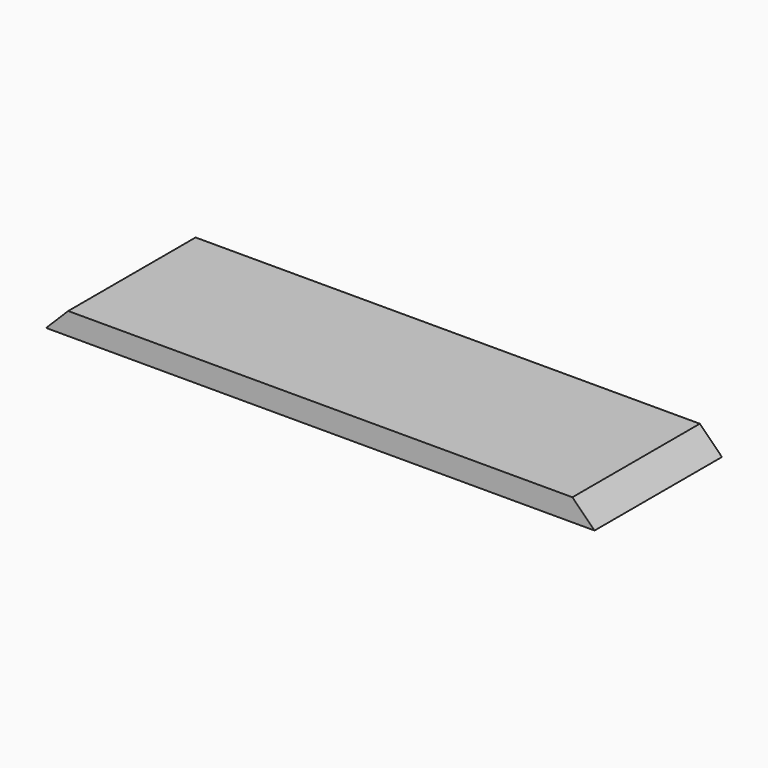
from build123d import *

# Parameters (mm, degrees)
F0_W     = 393.7
F0_H     = 114.3
F1_DEPTH = 15.875
F3_DEPTH = 114.301


with BuildPart() as f1:
    # F0 (on Top) → F1 (new body)
    with BuildSketch(Plane.XY):
        Rectangle(F0_W, F0_H)
    extrude(amount=F1_DEPTH)

    # F2 (on face) → F3 (cut, through all)
    with BuildSketch(Plane.XZ.offset(57.15)):
        Polygon((-226.020381, 0), (-196.85, 0), (-180.975, 15.875), (-180.975, 49.047567), (-226.020381, 49.047567), align=None)
        Polygon((226.020381, 49.047567), (180.975, 49.047567), (180.975, 15.875), (196.85, 0), (226.020381, 0), align=None)
    extrude(amount=-F3_DEPTH, mode=Mode.SUBTRACT)


solid = f1.part
